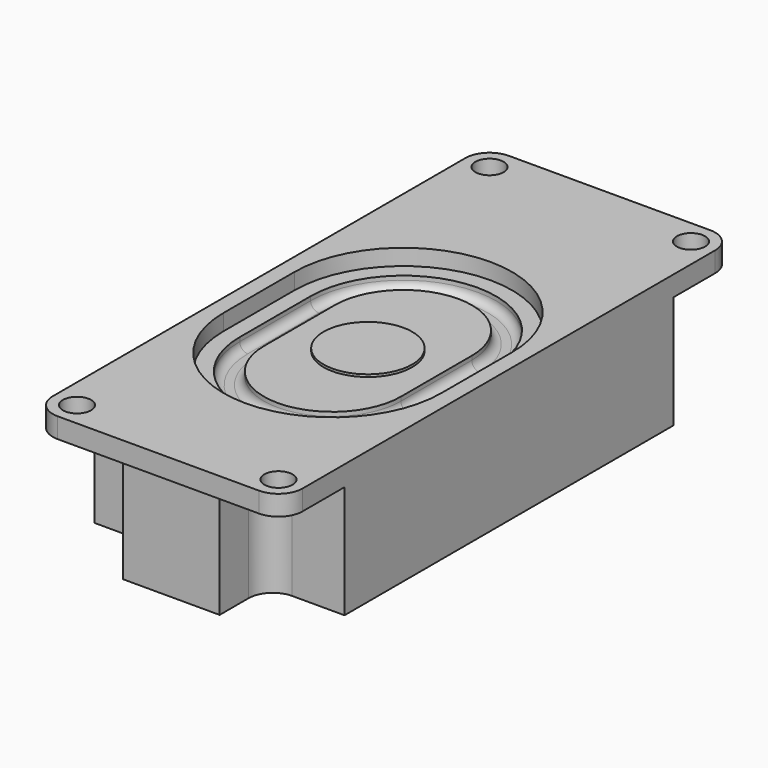
from build123d import *

# Parameters (mm, degrees)
SKETCH_W        = 31
SKETCH_H        = 70
PAD_DEPTH       = 2.5
SKETCH001_R     = 1.75
POCKET_DEPTH    = 2.5
FILLET_R        = 3
PAD001_DEPTH    = 14
FILLET001_R     = 3
POCKET001_DEPTH = 2
POCKET002_DEPTH = 1.5
FILLET002_R     = 1
SKETCH005_R     = 5.5
PAD002_DEPTH    = 0.3


with BuildPart() as part:
    # Sketch → Pad (new body)
    with BuildSketch(Plane.XY):
        with Locations((0, 35)):
            Rectangle(SKETCH_W, SKETCH_H)
    extrude(amount=PAD_DEPTH)

    # Sketch001 (on Face6 of Pad) → Pocket (cut)
    with BuildSketch(Plane.XY.offset(2.5)):
        with Locations((-12.5, 67)):
            Circle(SKETCH001_R)
        with Locations((12.5, 67)):
            Circle(SKETCH001_R)
        with Locations((-12.5, 3)):
            Circle(SKETCH001_R)
        with Locations((12.5, 3)):
            Circle(SKETCH001_R)
    extrude(amount=-POCKET_DEPTH, mode=Mode.SUBTRACT)

    # Fillet
    fillet_edges = [part.edges().sort_by_distance(p)[0] for p in [
        (-15.5, 0, 1.25),
        (15.5, 0, 1.25),
        (-15.5, 70, 1.25),
        (15.5, 70, 1.25),
    ]]
    fillet(fillet_edges, radius=FILLET_R)

    # Sketch002 (on Face2 of Fillet) → Pad001 (join)
    with BuildSketch(Plane(origin=(0, 0, 0), x_dir=(1, 0, 0), z_dir=(0, 0, -1))):
        Polygon((-6, -2), (6, -2), (6, -9.5), (15.5, -9.5), (15.5, -60.5), (6, -60.5), (6, -68), (-6, -68), (-6, -60.5), (-15.5, -60.5), (-15.5, -9.5), (-6, -9.5), align=None)
    extrude(amount=PAD001_DEPTH)

    # Fillet001
    fillet001_edges = [part.edges().sort_by_distance(p)[0] for p in [
        (6, 9.5, -7),
        (-6, 9.5, -7),
        (-6, 60.5, -7),
        (6, 60.5, -7),
    ]]
    fillet(fillet001_edges, radius=FILLET001_R)

    # Sketch003 (on Face20 of Fillet001) → Pocket001 (cut)
    with BuildSketch(Plane.XY.offset(2.5)):
        with BuildLine():
            ThreePointArc((13.5, 38), (0, 51.5), (-13.5, 38))
            Line((-13.5, 38), (-13.5, 27))
            ThreePointArc((-13.5, 27), (0, 13.5), (13.5, 27))
            Line((13.5, 27), (13.5, 38))
        make_face()
    extrude(amount=-POCKET001_DEPTH, mode=Mode.SUBTRACT)

    # Sketch004 (on Face37 of Pocket001) → Pocket002 (cut)
    with BuildSketch(Plane.XY.offset(0.5)):
        with BuildLine():
            ThreePointArc((11.5, 38), (0, 49.5), (-11.5, 38))
            Line((-11.5, 38), (-11.5, 27))
            ThreePointArc((-11.5, 27), (0, 15.5), (11.5, 27))
            Line((11.5, 27), (11.5, 38))
        make_face()
        with BuildLine():
            ThreePointArc((8.5, 38), (0, 46.5), (-8.5, 38))
            Line((-8.5, 38), (-8.5, 27))
            ThreePointArc((-8.5, 27), (0, 18.5), (8.5, 27))
            Line((8.5, 27), (8.5, 38))
        make_face(mode=Mode.SUBTRACT)
    extrude(amount=-POCKET002_DEPTH, mode=Mode.SUBTRACT)

    # Fillet002
    fillet002_edges = [part.edges().sort_by_distance(p)[0] for p in [
        (0, 49.5, -1),
        (0, 15.5, -1),
        (-11.5, 32.5, -1),
        (0, 46.5, -1),
        (8.5, 32.5, -1),
        (0, 18.5, -1),
        (-8.5, 32.5, -1),
        (11.5, 32.5, -1),
    ]]
    fillet(fillet002_edges, radius=FILLET002_R)

    # Sketch005 (on Face36 of Fillet002) → Pad002 (join)
    with BuildSketch(Plane.XY.offset(0.5)):
        with Locations((0, 32.5)):
            Circle(SKETCH005_R)
    extrude(amount=PAD002_DEPTH)


solid = part.part
